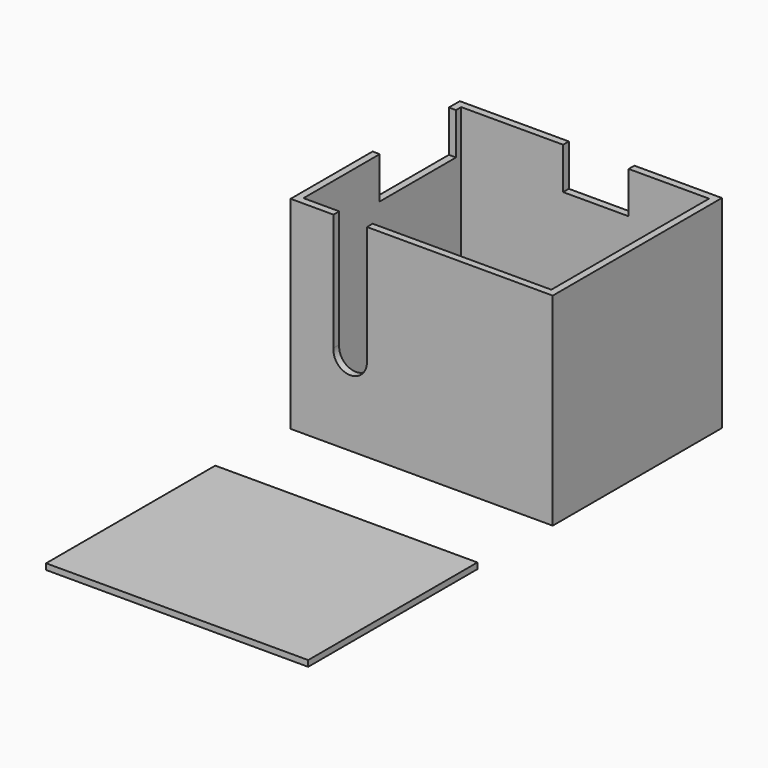
from build123d import *

# Parameters (mm, degrees)
F0_W     = 44
F0_H     = 35.5
F1_DEPTH = 34
F2_T     = -1.2
F4_DEPTH = 1.2
F5_W     = 11
F5_H     = 1.2
F5_W_2   = 1.2
F5_H_2   = 16
F6_DEPTH = 7
F7_W     = 44
F7_H     = 35.5
F8_DEPTH = 1


with BuildPart() as f1:
    # F0 (on Top) → F1 (new body)
    with BuildSketch(Plane.XY):
        Rectangle(F0_W, F0_H)
    extrude(amount=F1_DEPTH)

    # F2
    f2_openings = [f1.faces().sort_by_distance(p)[0] for p in [
        (0, 0, 34),
    ]]
    offset(amount=F2_T, openings=f2_openings)

    # F3 (on face) → F4 (cut, through all)
    with BuildSketch(Plane.XZ.offset(17.75)):
        with BuildLine():
            Line((-14.7977748662, 14), (-9.1863577381, 14))
            ThreePointArc((-9.1863577381, 14), (-11.8505925452, 16.8096726127), (-14.7977748662, 14.2983933243))
            Line((-14.7977748662, 14.2983933243), (-14.7977748662, 14))
        make_face()
        with BuildLine():
            ThreePointArc((-14.7977748662, 14.2983933243), (-12.1494074548, 11.1903273873), (-9.1863577381, 14))
            Line((-9.1863577381, 14), (-14.7977748662, 14))
            Line((-14.7977748662, 14), (-14.7977748662, 14.2983933243))
        make_face()
        with BuildLine():
            ThreePointArc((-14.7977748662, 14.2983933243), (-11.8505925452, 16.8096726127), (-9.1863577381, 14))
            Line((-9.1863577381, 14), (-9.1863577381, 34))
            Line((-9.1863577381, 34), (-14.7977748662, 34))
            Line((-14.7977748662, 34), (-14.7977748662, 14.2983933243))
        make_face()
    extrude(amount=-F4_DEPTH, mode=Mode.SUBTRACT)

    # F5 (on face) → F6 (cut)
    with BuildSketch(Plane.XY.offset(34)):
        with Locations((1.8, 17.15)):
            Rectangle(F5_W, F5_H)
        with Locations((-21.4, 7.45)):
            Rectangle(F5_W_2, F5_H_2)
    extrude(amount=-F6_DEPTH, mode=Mode.SUBTRACT)


with BuildPart() as f8:
    # F7 (on Top) → F8 (new body)
    with BuildSketch(Plane.XY):
        with Locations((0, -51.3141791623)):
            Rectangle(F7_W, F7_H)
    extrude(amount=F8_DEPTH)


solid = Compound([f1.part, f8.part])
